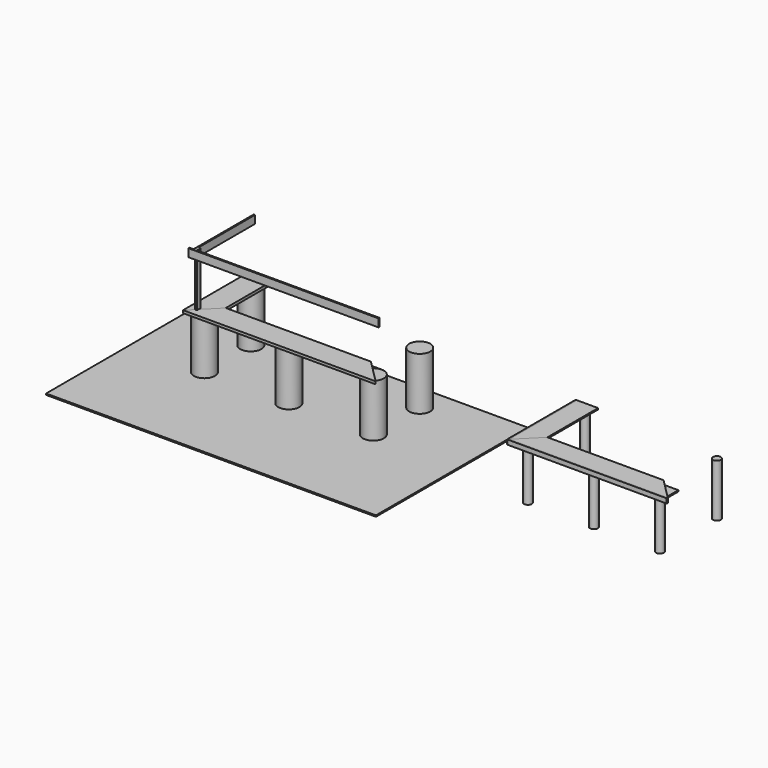
from build123d import *

# Parameters (mm, degrees)
F0_W      = 6350
F0_H      = 3657.6
F1_DEPTH  = 25.4
F2_R      = 203.2
F3_DEPTH  = 1016
F6_DEPTH  = 50.8
F8_DEPTH  = 50.8
F10_W     = 2844.8
F10_H     = 304.8
F11_DEPTH = 50.8
F13_W     = 38.1
F13_H     = 88.9
F14_DEPTH = 1016
F15_W     = 3657.6
F15_H     = 152.4
F16_DEPTH = 25.4
F17_W     = 1447.8
F17_H     = 152.4
F18_DEPTH = 25.4
F19_R     = 76.2
F20_DEPTH = 1016
F22_DEPTH = 25.4
F23_W     = 2438.4
F23_H     = 304.8
F24_DEPTH = 25.4
F25_W     = 3048
F25_H     = 88.9
F26_DEPTH = 25.4
F28_DEPTH = 25.4
F29_W     = 1651
F29_H     = 88.9
F30_DEPTH = 25.4


with BuildPart() as f1:
    # F0 (on Top) → F1 (new body)
    with BuildSketch(Plane.XY):
        with Locations((127, 0)):
            Rectangle(F0_W, F0_H)
    extrude(amount=-F1_DEPTH)


with BuildPart() as f3:
    # F2 (on Top) → F3 (new body)
    with BuildSketch(Plane.XY):
        with Locations((0, 203.2)):
            Circle(F2_R)
    extrude(amount=F3_DEPTH)

    # F10 (on offset) → F11 (join)
    with BuildSketch(Plane.XY.offset(812.8)):
        with Locations((0, 558.8)):
            Rectangle(F10_W, F10_H)
    extrude(amount=-F11_DEPTH)


with BuildPart() as f3b:
    # F2 (on Top) → F3, piece 2 (new body)
    with BuildSketch(Plane.XY):
        with Locations((1625.6, 203.2)):
            Circle(F2_R)
    extrude(amount=F3_DEPTH)


with BuildPart() as f3c:
    # F2 (on Top) → F3, piece 3 (new body)
    with BuildSketch(Plane.XY):
        with Locations((-1625.6, 203.2)):
            Circle(F2_R)
    extrude(amount=F3_DEPTH)


with BuildPart() as f3d:
    # F2 (on Top) → F3, piece 4 (new body)
    with BuildSketch(Plane.XY):
        with Locations((-1625.6, 1320.8)):
            Circle(F2_R)
    extrude(amount=F3_DEPTH)


with BuildPart() as f3e:
    # F2 (on Top) → F3, piece 5 (new body)
    with BuildSketch(Plane.XY):
        with Locations((1625.6, 1320.8)):
            Circle(F2_R)
    extrude(amount=F3_DEPTH)


with BuildPart() as f6:
    # F5 (on offset) → F6 (new body)
    with BuildSketch(Plane.XY.offset(1016)):
        Polygon((-1397, 431.8), (-1854.2, -25.4), (1854.2, -25.4), (1397, 431.8), align=None)
    extrude(amount=F6_DEPTH)


with BuildPart() as f8:
    # F7 (on offset) → F8 (new body)
    with BuildSketch(Plane.XY.offset(1016)):
        Polygon((-1854.2, -25.4), (-1397, 431.8), (-1397, 1549.4), (-1854.2, 1549.4), align=None)
    extrude(amount=F8_DEPTH)


with BuildPart() as f14:
    # F13 (on offset) → F14 (new body)
    with BuildSketch(Plane.XY.offset(1066.8)):
        with Locations((-1708.15, 146.05)):
            Rectangle(F13_W, F13_H)
    extrude(amount=F14_DEPTH)


with BuildPart() as f16:
    # F15 (on face) → F16 (new body)
    with BuildSketch(Plane.XZ.offset(-101.6)):
        with Locations((0, 2006.6)):
            Rectangle(F15_W, F15_H)
    extrude(amount=F16_DEPTH)


with BuildPart() as f18:
    # F17 (on face) → F18 (new body)
    with BuildSketch(Plane(origin=(-1727.2, 0, 0), x_dir=(0, -1, 0), z_dir=(-1, 0, 0))):
        with Locations((-825.5, 2006.6)):
            Rectangle(F17_W, F17_H)
    extrude(amount=F18_DEPTH)


with BuildPart() as f20:
    # F19 (on Top) → F20 (new body)
    with BuildSketch(Plane.XY):
        with Locations((6096, -76.2)):
            Circle(F19_R)
    extrude(amount=F20_DEPTH)


with BuildPart() as f20b:
    # F19 (on Top) → F20, piece 2 (new body)
    with BuildSketch(Plane.XY):
        with Locations((4826, -76.2)):
            Circle(F19_R)
    extrude(amount=F20_DEPTH)


with BuildPart() as f20c:
    # F19 (on Top) → F20, piece 3 (new body)
    with BuildSketch(Plane.XY):
        with Locations((7366, -76.2)):
            Circle(F19_R)
    extrude(amount=F20_DEPTH)


with BuildPart() as f20d:
    # F19 (on Top) → F20, piece 4 (new body)
    with BuildSketch(Plane.XY):
        with Locations((4826, 1295.4)):
            Circle(F19_R)
    extrude(amount=F20_DEPTH)


with BuildPart() as f20e:
    # F19 (on Top) → F20, piece 5 (new body)
    with BuildSketch(Plane.XY):
        with Locations((7366, 1295.4)):
            Circle(F19_R)
    extrude(amount=F20_DEPTH)


with BuildPart() as f22:
    # F21 (on offset) → F22 (new body)
    with BuildSketch(Plane.XY.offset(1016)):
        Polygon((4978.4, 203.2), (4572, -203.2), (7620, -203.2), (7213.6, 203.2), align=None)
    extrude(amount=F22_DEPTH)


with BuildPart() as f24:
    # F23 (on offset) → F24 (new body)
    with BuildSketch(Plane.XY.offset(812.8)):
        with Locations((6096, 279.4)):
            Rectangle(F23_W, F23_H)
    extrude(amount=-F24_DEPTH)


with BuildPart() as f26:
    # F25 (on face) → F26 (new body)
    with BuildSketch(Plane.XZ.offset(203.2)):
        with Locations((6096, 996.95)):
            Rectangle(F25_W, F25_H)
    extrude(amount=F26_DEPTH)


with BuildPart() as f28:
    # F27 (on face) → F28 (new body)
    with BuildSketch(Plane.XY.offset(1041.4)):
        Polygon((4572, -203.2), (4978.4, 203.2), (4978.4, 1422.4), (4572, 1422.4), align=None)
    extrude(amount=-F28_DEPTH)


with BuildPart() as f30:
    # F29 (on face) → F30 (new body)
    with BuildSketch(Plane(origin=(4572, 0, 0), x_dir=(0, -1, 0), z_dir=(-1, 0, 0))):
        with Locations((-596.9, 996.95)):
            Rectangle(F29_W, F29_H)
    extrude(amount=F30_DEPTH)


solid = Compound([f1.part, f3.part, f3b.part, f3c.part, f3d.part, f3e.part, f6.part, f8.part, f14.part, f16.part, f18.part, f20.part, f20b.part, f20c.part, f20d.part, f20e.part, f22.part, f24.part, f26.part, f28.part, f30.part])
